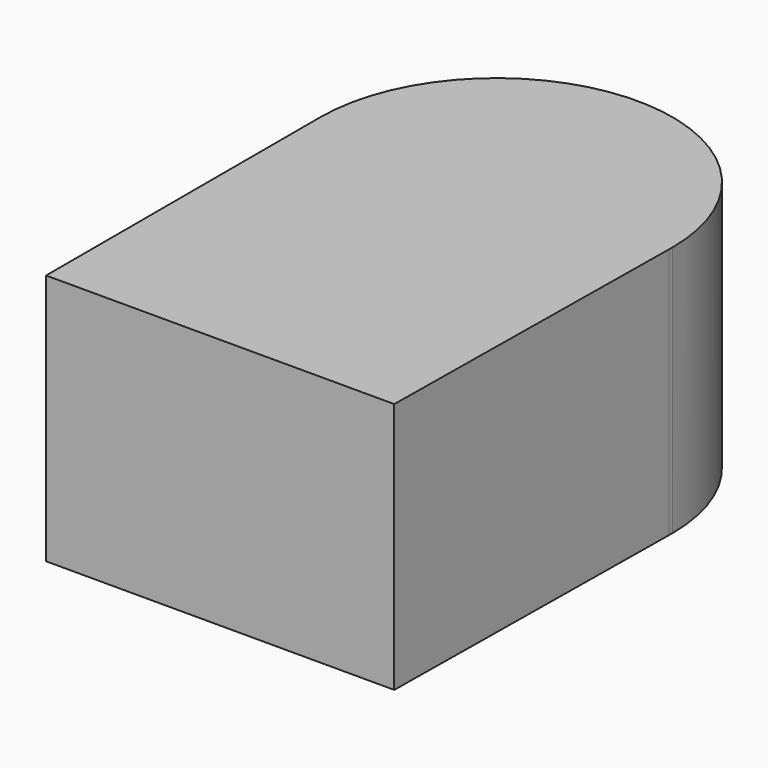
from build123d import *

# Parameters (mm, degrees)
F0_R     = 3.81
F1_DEPTH = 12.7
F2_DEPTH = 6.35


with BuildPart() as f1:
    # F0 (on Top) → F1 (new body)
    with BuildSketch(Plane.XY):
        with BuildLine():
            Line((8.682927, -17.304085), (8.887454, -0.212738))
            Line((8.887454, -0.212738), (8.89, 0))
            ThreePointArc((8.89, 0), (0, 8.89), (-8.89, 0))
            Line((-8.89, 0), (-8.89, -17.304085))
            Line((-8.89, -17.304085), (8.682927, -17.304085))
        make_face()
        Circle(F0_R, mode=Mode.SUBTRACT)
        Circle(F0_R)
    extrude(amount=F1_DEPTH)

    # F0 (on Top) → F2 (cut)
    with BuildSketch(Plane.XY):
        Circle(F0_R)
    extrude(amount=F2_DEPTH, mode=Mode.SUBTRACT)


solid = f1.part
